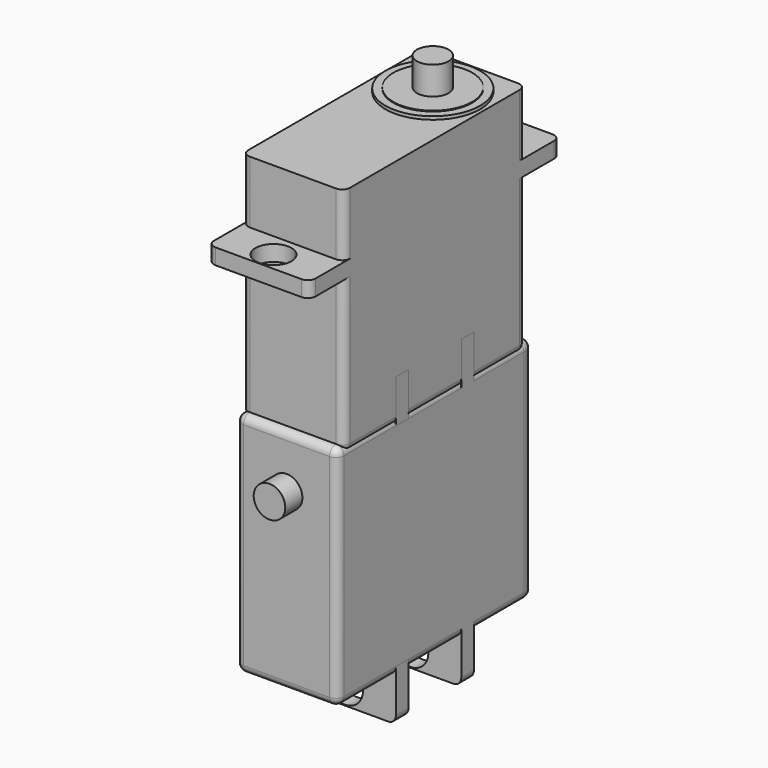
from build123d import *

# Parameters (mm, degrees)
F0_W      = 12.9
F0_H      = 28.85
F1_DEPTH  = 9.9
F2_DEPTH  = 19.6
F0_H_2    = 5.45
F0_R      = 2.275
F3_DEPTH  = 2
F4_R      = 6
F4_R_2    = 5
F5_DEPTH  = 0.4
F6_DEPTH  = 0.5
F7_R      = 2
F8_DEPTH  = 3.56
F9_R      = 1
F10_ANGLE = 90


with BuildPart() as f1:
    # F0 (on Top) → F1 (new body)
    with BuildSketch(Plane.XY):
        Rectangle(F0_W, F0_H)
    extrude(amount=F1_DEPTH)

    # F0 (on Top) → F2 (join)
    with BuildSketch(Plane.XY):
        Rectangle(F0_W, F0_H)
    extrude(amount=-F2_DEPTH)

    # F0 (on Top) → F3 (join)
    with BuildSketch(Plane.XY):
        with Locations((0, -17.15)):
            Rectangle(F0_W, F0_H_2)
        with Locations((0, -17.5)):
            Circle(F0_R, mode=Mode.SUBTRACT)
        with Locations((0, 17.15)):
            Rectangle(F0_W, F0_H_2)
        with Locations((0, 17.5)):
            Circle(F0_R, mode=Mode.SUBTRACT)
    extrude(amount=F3_DEPTH)

    # F4 (on face) → F5 (join)
    with BuildSketch(Plane.XY.offset(9.9)):
        with Locations((0, 7.725)):
            Circle(F4_R)
        with Locations((0, 7.725)):
            Circle(F4_R_2, mode=Mode.SUBTRACT)
    extrude(amount=F5_DEPTH)

    # F6 (add): a face of the model
    f6_faces = [f1.faces().sort_by_distance(p)[0] for p in [
        (0, 7.725, 9.9),
    ]]
    extrude(f6_faces, amount=F6_DEPTH)

    # F7 (on face) → F8 (join)
    with BuildSketch(Plane.XY.offset(10.4)):
        with Locations((0, 7.725)):
            Circle(F7_R)
    extrude(amount=F8_DEPTH)

    # F9
    f9_edges = [f1.edges().sort_by_distance(p)[0] for p in [
        (-6.45, -14.425, -9.8),
        (-6.45, -14.425, 5.95),
        (6.45, -14.425, 5.95),
        (6.45, -14.425, -9.8),
        (0, -14.425, -19.6),
        (-6.45, 0, -19.6),
        (-6.45, 14.425, -9.8),
        (-6.45, 14.425, 5.95),
        (0, 14.425, -19.6),
        (6.45, 14.425, -9.8),
        (6.45, 14.425, 5.95),
        (6.45, 0, -19.6),
        (-6.45, 19.875, 1),
        (6.45, 19.875, 1),
        (-6.45, -19.875, 1),
        (6.45, -19.875, 1),
    ]]
    fillet(f9_edges, radius=F9_R)


with BuildPart() as f10_1:
    # F10: copy of F1
    add(f1.part.rotate(Axis((0, 14.425, -18.6), (1, 0, 0)), F10_ANGLE))


with BuildPart() as f11_1:
    # F11: instance of F10_1
    add(f10_1.part.mirror(Plane.XZ))


solid = Compound([f1.part, f10_1.part, f11_1.part])
